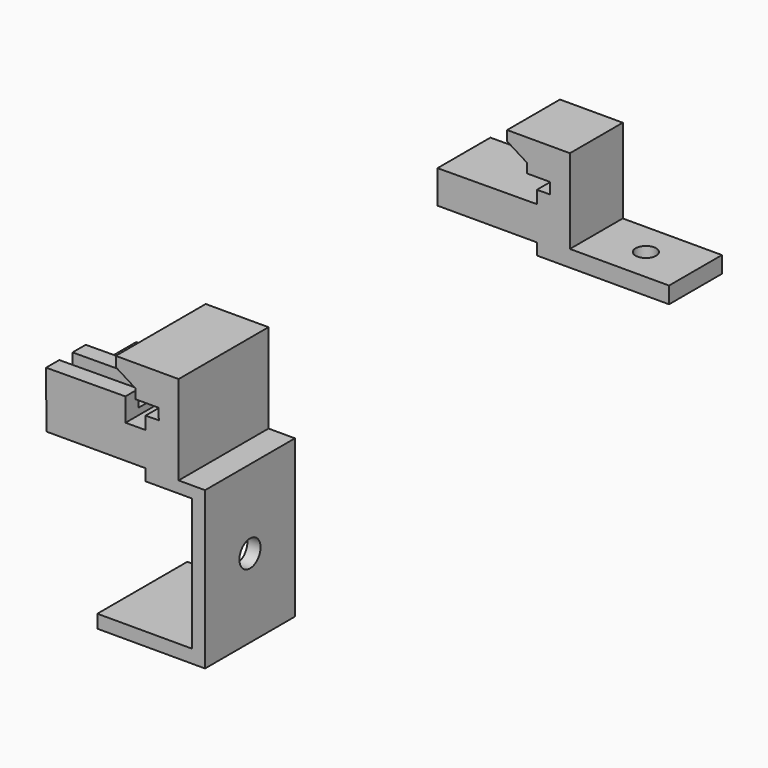
from build123d import *

# Parameters (mm, degrees)
F1_DEPTH  = 47
F2_DEPTH  = 30
F4_DEPTH  = 12
F5_R      = 2
F6_DEPTH  = 3
F9_DEPTH  = 10
F10_R     = 1.55
F11_DEPTH = 25


with BuildPart() as f1:
    # F0 (on Front) → F1 (new body)
    with BuildSketch(Plane.XZ):
        Polygon((27.9699712028, 6.7499098263), (28, 1.75), (43, 1.75), (43, 0), (48, 0), (50, 0), (52, 0), (52, 1.75), (48, 1.75), (48, 13.75), (48, 15.25), (38.5, 15.25), (38.5, 13.75), (41.5, 11.875), (41.5, 10.4472711682), (44.9731051922, 10.4472711682), (45, 8.7854899466), (43, 8.7531212961), (43, 6.8401781918), align=None)
        Polygon((52, 0), (50, 0), (50, -20), (35.7036739588, -20), (35.7036739588, -22), (52, -22), align=None)
    extrude(amount=F1_DEPTH)

    # F0 (on Front) → F2 (cut)
    with BuildSketch(Plane.XZ):
        Polygon((27.9699712028, 6.7499098263), (28, 1.75), (43, 1.75), (43, 0), (48, 0), (50, 0), (52, 0), (52, 1.75), (48, 1.75), (48, 13.75), (48, 15.25), (38.5, 15.25), (38.5, 13.75), (41.5, 11.875), (41.5, 10.4472711682), (44.9731051922, 10.4472711682), (45, 8.7854899466), (43, 8.7531212961), (43, 6.8401781918), align=None)
        Polygon((52, 0), (50, 0), (50, -20), (35.7036739588, -20), (35.7036739588, -22), (52, -22), align=None)
    extrude(amount=F2_DEPTH, mode=Mode.SUBTRACT)

    # F3 (on face) → F4 (join)
    with BuildSketch(Plane(origin=(28.0094999534, 0, 0.1682213529), x_dir=(0, -1, 0), z_dir=(-0.9999819653, 0, -0.0060057594))):
        Polygon((39.5, 5.9370710514), (47, 5.9370710514), (47, 7.0816674463), (47, 10.0810629427), (44.5, 10.0810629427), (44.5, 7.5816674463), (42, 7.5816674463), (42, 9.5810629427), (42, 10.0810629427), (39.5, 10.0810629427), (39.5, 9.5810629427), align=None)
    extrude(amount=-F4_DEPTH)

    # F5 (on face) → F6 (cut)
    with BuildSketch(Plane.YZ.offset(52)):
        with Locations((-38.5, -10.125)):
            Circle(F5_R)
    extrude(amount=-F6_DEPTH, mode=Mode.SUBTRACT)


with BuildPart() as f9:
    # F8 (on offset) → F9 (new body)
    with BuildSketch(Plane(origin=(0, 27, 0), x_dir=(-1, 0, 0), z_dir=(0, 1, 0))):
        Polygon((-43, 1.75), (-28, 1.75), (-27.9699712028, 6.7499098263), (-43, 6.8401781918), (-43, 8.7531212961), (-45, 8.7854899466), (-44.9731051922, 10.4472711682), (-41.5, 10.4472711682), (-41.5, 11.875), (-38.5, 13.75), (-38.5, 15.25), (-48, 15.25), (-48, 2.5), (-63, 2.5), (-63, 0), (-43, 0), align=None)
    extrude(amount=F9_DEPTH)

    # F10 (on face) → F11 (cut)
    with BuildSketch(Plane.XY.offset(2.5)):
        with Locations((55.5, 32)):
            Circle(F10_R)
    extrude(amount=-F11_DEPTH, mode=Mode.SUBTRACT)


solid = Compound([f1.part, f9.part])
